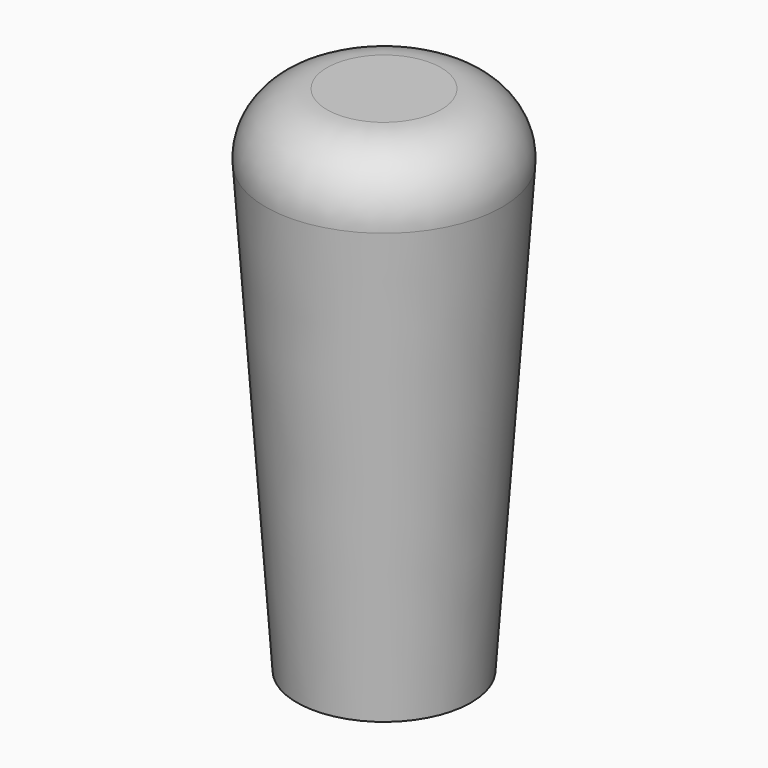
from build123d import *

# Parameters (mm, degrees)
F4_R = 6


with BuildPart() as f1:
    # F0 (on Front) → F1 (revolve)
    with BuildSketch(Plane.XZ):
        Polygon((12, 0), (0, 0), (0, -50), (8.5, -50), align=None)
    revolve(axis=Axis((0, 0, -25), (0, 0, -1)))

    # F2 (on Front) → F3 (revolve, cut)
    with BuildSketch(Plane.XZ):
        Polygon((2.6, -2.013246), (0, -2.013246), (0, -50.013246), (6.4, -50.013246), (5.2, -9.513246), (4, -9.548802), (4, -5.013246), (2.6, -5.013246), align=None)
    revolve(axis=Axis((0, 0, -26.013246), (0, 0, -1)), mode=Mode.SUBTRACT)

    # F4
    f4_edges = [f1.edges().sort_by_distance(p)[0] for p in [
        (-12, 0, 0),
    ]]
    fillet(f4_edges, radius=F4_R)


solid = f1.part
